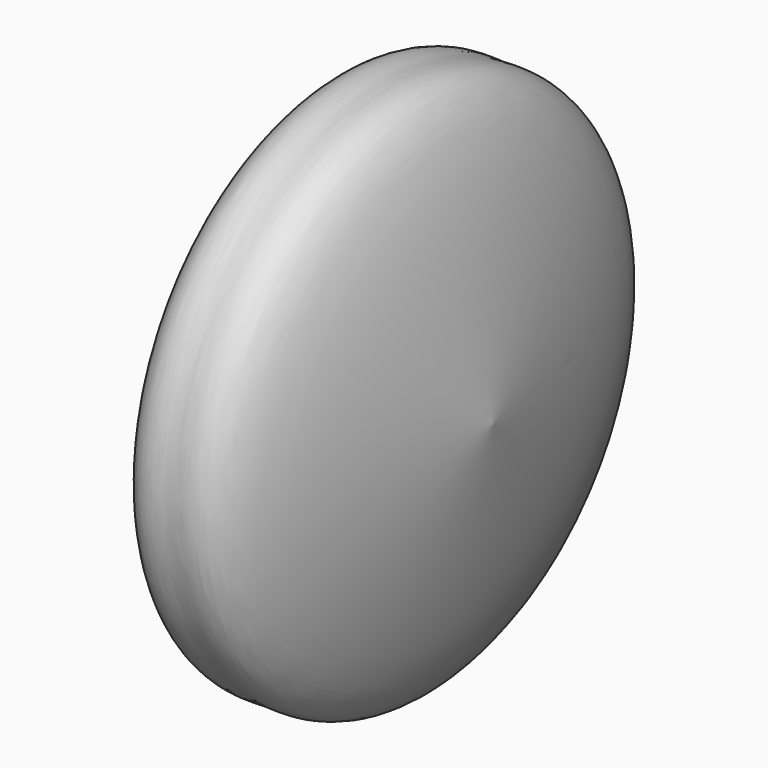
from build123d import *


with BuildPart() as f1:
    # F0 (on Top) → F1 (revolve)
    with BuildSketch(Plane.XY):
        with BuildLine():
            add(Edge.make_bspline(
                [(-6.25, 0), (-4.166667, 16.666667), (0, 14.102564), (4.166667, 16.666667), (6.25, 0)],
                knots=[0, 0, 0, 0, 16.605688, 33.211377, 33.211377, 33.211377, 33.211377], degree=3))
            Line((-6.25, 0), (6.25, 0))
        make_face()
    revolve(axis=Axis((0, 0, 0), (1, 0, 0)))


solid = f1.part
